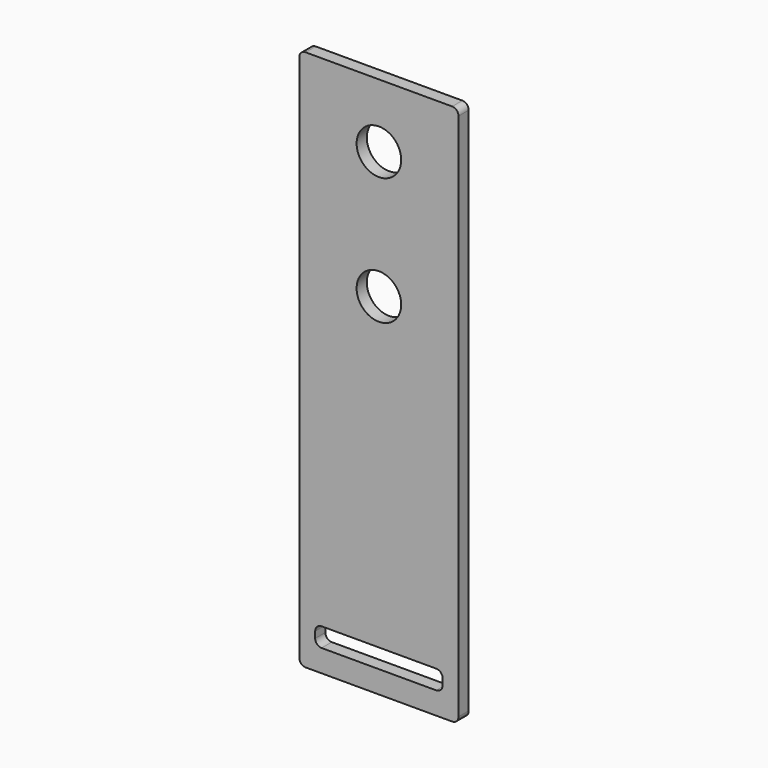
from build123d import *

# Parameters (mm, degrees)
F0_R     = 3.5
F1_DEPTH = 2


with BuildPart() as f1:
    # F0 (on Front) → F1 (new body)
    with BuildSketch(Plane.XZ):
        with BuildLine():
            Line((-11.5, -42.5), (11.5, -42.5))
            ThreePointArc((11.5, -42.5), (12.207107, -42.207107), (12.5, -41.5))
            Line((12.5, -41.5), (12.5, 41.5))
            ThreePointArc((12.5, 41.5), (12.207107, 42.207107), (11.5, 42.5))
            Line((11.5, 42.5), (-11.5, 42.5))
            ThreePointArc((-11.5, 42.5), (-12.207107, 42.207107), (-12.5, 41.5))
            Line((-12.5, 41.5), (-12.5, -41.5))
            ThreePointArc((-12.5, -41.5), (-12.207107, -42.207107), (-11.5, -42.5))
        make_face()
        with BuildLine():
            ThreePointArc((10, -38), (9.707107, -38.707107), (9, -39))
            Line((9, -39), (-9, -39))
            ThreePointArc((-9, -39), (-9.707107, -38.707107), (-10, -38))
            Line((-10, -38), (-10, -37))
            ThreePointArc((-10, -37), (-9.707107, -36.292893), (-9, -36))
            Line((-9, -36), (9, -36))
            ThreePointArc((9, -36), (9.707107, -36.292893), (10, -37))
            Line((10, -37), (10, -38))
        make_face(mode=Mode.SUBTRACT)
        with Locations((0, 12.5)):
            Circle(F0_R, mode=Mode.SUBTRACT)
        with Locations((0, 32.5)):
            Circle(F0_R, mode=Mode.SUBTRACT)
    extrude(amount=F1_DEPTH)


solid = f1.part
